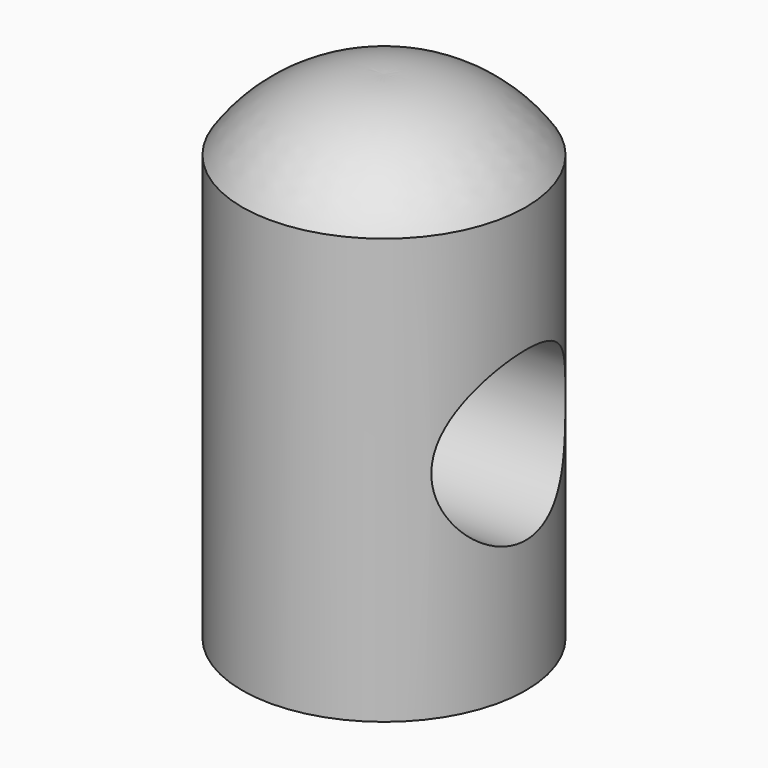
from build123d import *

# Parameters (mm, degrees)
F0_W     = 21.4376
F0_H     = 64.3128
F3_R     = 12.674553
F4_DEPTH = 31.75


with BuildPart() as f1:
    # F0 (on Front) → F1 (revolve)
    with BuildSketch(Plane.XZ):
        with BuildLine():
            Line((-21.4376, 31.64852), (0, 31.64852))
            Line((0, 31.64852), (0, 42.36732))
            ThreePointArc((0, 42.36732), (-12.123681, 39.817683), (-21.4376, 31.64852))
        make_face()
        with Locations((-10.7188, -0.50788)):
            Rectangle(F0_W, F0_H)
    revolve(axis=Axis((0, 0, 37.00792), (0, 0, 1)))

    # F3 (on face) → F4 (cut, symmetric)
    with BuildSketch(Plane(origin=(0, 0, 0), x_dir=(0, -1, 0), z_dir=(-1, 0, 0))):
        Circle(F3_R)
    extrude(amount=F4_DEPTH, both=True, mode=Mode.SUBTRACT)


solid = f1.part
